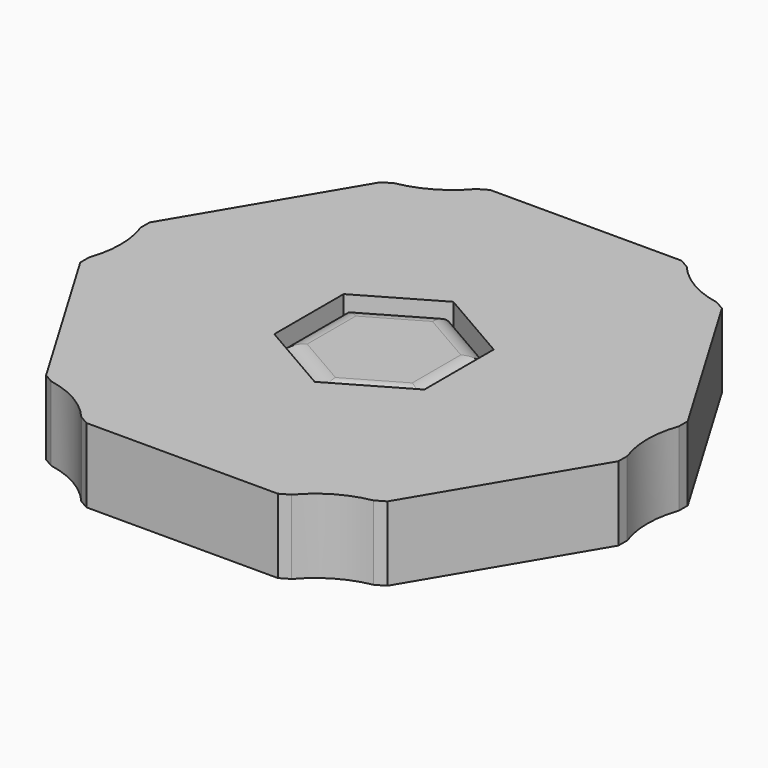
from build123d import *

# Parameters (mm, degrees)
F1_DEPTH = 15.24
F2_R     = 5.08
F3_R     = 5.08
F4_DEPTH = 16.764


with BuildPart() as f1:
    # F0 (on Top) → F1 (new body)
    with BuildSketch(Plane.XY):
        Polygon((0, -19.558), (16.937725, -9.779), (16.937725, 9.779), (0, 19.558), (-16.937725, 9.779), (-16.937725, -9.779), align=None)
    extrude(amount=F1_DEPTH)

    # F2
    f2_edges = [f1.edges().sort_by_distance(p)[0] for p in [
        (-8.468862, -14.6685, 15.24),
        (8.468862, -14.6685, 15.24),
        (16.937725, 0, 15.24),
        (8.468862, 14.6685, 15.24),
        (-8.468862, 14.6685, 15.24),
        (-16.937725, 0, 15.24),
    ]]
    fillet(f2_edges, radius=F2_R)

    # F3
    f3_edges = [f1.edges().sort_by_distance(p)[0] for p in [
        (-8.468862, -14.6685, 0),
        (8.468862, -14.6685, 0),
        (16.937725, 0, 0),
        (8.468862, 14.6685, 0),
        (-8.468862, 14.6685, 0),
        (-16.937725, 0, 0),
    ]]
    fillet(f3_edges, radius=F3_R)

    # F0 (on Top) → F4 (join)
    with BuildSketch(Plane.XY):
        with BuildLine():
            Line((-38.527725, -47.173977), (-16.937725, -9.779))
            Line((-16.937725, -9.779), (-16.937725, 9.779))
            Line((-16.937725, 9.779), (-38.527725, 47.173977))
            Line((-38.527725, 47.173977), (-60.727019, 9.779))
            Line((-60.727019, 9.779), (-60.727019, 7.295595))
            ThreePointArc((-60.727019, 7.295595), (-59.776888, 3.702654), (-59.457019, 0))
            ThreePointArc((-59.457019, 0), (-59.776888, -3.702654), (-60.727019, -7.295595))
            Line((-60.727019, -7.295595), (-60.727019, -9.779))
            Line((-60.727019, -9.779), (-38.527725, -47.173977))
        make_face()
        with BuildLine():
            Line((-16.937725, 9.779), (0, 19.558))
            Line((0, 19.558), (-21.59, 56.952977))
            Line((-21.59, 56.952977), (-23.740692, 55.711274))
            ThreePointArc((-23.740692, 55.711274), (-29.423862, 50.963625), (-36.377033, 48.41568))
            Line((-36.377033, 48.41568), (-38.527725, 47.173977))
            Line((-38.527725, 47.173977), (-16.937725, 9.779))
        make_face()
        Polygon((-21.59, 56.952977), (0, 19.558), (21.59, 56.952977), align=None)
        Polygon((16.937725, 9.779), (16.937725, -9.779), (38.527725, -47.173977), (60.727019, -9.779), (17.55615, -9.779), (17.55615, 9.779), (60.727019, 9.779), (38.527725, 47.173977), align=None)
        with BuildLine():
            Line((0, 19.558), (16.937725, 9.779))
            Line((16.937725, 9.779), (38.527725, 47.173977))
            Line((38.527725, 47.173977), (36.377033, 48.41568))
            ThreePointArc((36.377033, 48.41568), (29.423862, 50.963625), (23.740692, 55.711274))
            Line((23.740692, 55.711274), (21.59, 56.952977))
            Line((21.59, 56.952977), (0, 19.558))
        make_face()
        with BuildLine():
            Line((17.55615, -9.779), (60.727019, -9.779))
            Line((60.727019, -9.779), (60.727019, -7.295595))
            ThreePointArc((60.727019, -7.295595), (59.457019, 0), (60.727019, 7.295595))
            Line((60.727019, 7.295595), (60.727019, 9.779))
            Line((60.727019, 9.779), (17.55615, 9.779))
            Line((17.55615, 9.779), (17.55615, -9.779))
        make_face()
        with BuildLine():
            Line((38.527725, -47.173977), (16.937725, -9.779))
            Line((16.937725, -9.779), (0, -19.558))
            Line((0, -19.558), (21.59, -56.952977))
            Line((21.59, -56.952977), (23.740692, -55.711274))
            ThreePointArc((23.740692, -55.711274), (29.423862, -50.963625), (36.377033, -48.41568))
            Line((36.377033, -48.41568), (38.527725, -47.173977))
        make_face()
        Polygon((21.59, -56.952977), (0, -19.558), (-21.59, -56.952977), align=None)
        with BuildLine():
            Line((-21.59, -56.952977), (0, -19.558))
            Line((0, -19.558), (-16.937725, -9.779))
            Line((-16.937725, -9.779), (-38.527725, -47.173977))
            Line((-38.527725, -47.173977), (-36.377033, -48.41568))
            ThreePointArc((-36.377033, -48.41568), (-29.423862, -50.963625), (-23.740692, -55.711274))
            Line((-23.740692, -55.711274), (-21.59, -56.952977))
        make_face()
    extrude(amount=F4_DEPTH)


solid = f1.part
